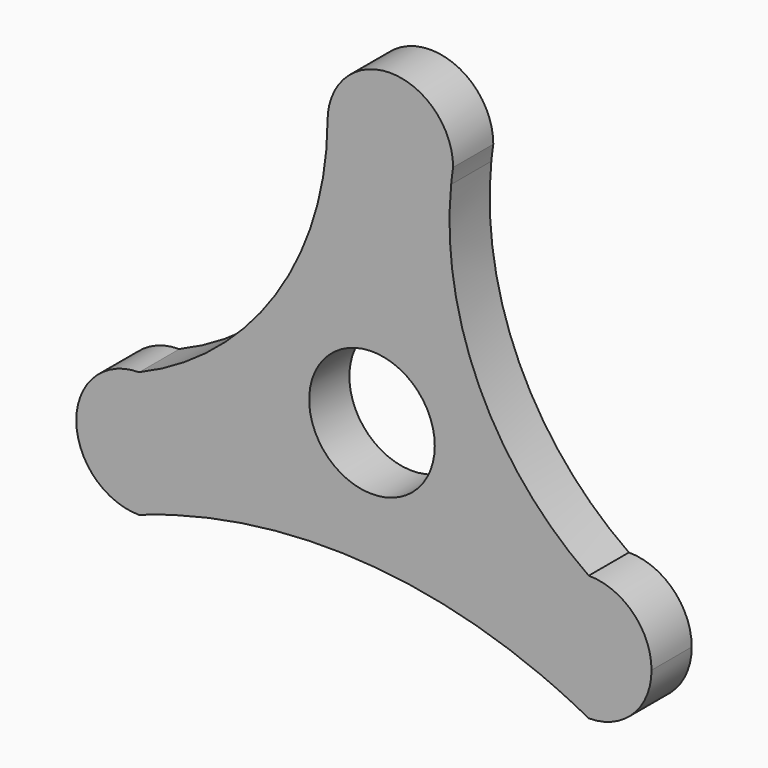
from build123d import *

# Parameters (mm, degrees)
F0_R     = 6.35
F1_DEPTH = 5.08


with BuildPart() as f1:
    # F0 (on Front) → F1 (new body)
    with BuildSketch(Plane.XZ):
        with BuildLine():
            ThreePointArc((-21.5212, 20.87065), (-23.381072, 25.360779), (-27.8712, 27.22065))
            ThreePointArc((-27.8712, 27.22065), (-33.608668, 23.591673), (-32.788297, 16.852608))
            ThreePointArc((-32.788297, 16.852608), (-30.301453, 15.746291), (-27.8712, 14.52065))
            ThreePointArc((-27.8712, 14.52065), (-23.381072, 16.380522), (-21.5212, 20.87065))
        make_face()
        with BuildLine():
            ThreePointArc((-41.783721, 57.525801), (-48.730566, 52.807039), (-54.283745, 59.106847))
            ThreePointArc((-54.283745, 59.106847), (-59.519659, 41.961154), (-73.339507, 30.541812))
            ThreePointArc((-73.339507, 30.541812), (-68.849379, 28.68194), (-66.989507, 24.191812))
            ThreePointArc((-66.989507, 24.191812), (-67.691038, 21.290555), (-69.640623, 19.030344))
            ThreePointArc((-69.640623, 19.030344), (-51.030186, 21.059804), (-32.788297, 16.852608))
            ThreePointArc((-32.788297, 16.852608), (-33.608668, 23.591673), (-27.8712, 27.22065))
            ThreePointArc((-27.8712, 27.22065), (-38.955492, 40.478125), (-41.783721, 57.525801))
        make_face()
        with Locations((-49.789048, 33.706847)):
            Circle(F0_R, mode=Mode.SUBTRACT)
        with BuildLine():
            ThreePointArc((-66.989507, 24.191812), (-68.849379, 28.68194), (-73.339507, 30.541812))
            ThreePointArc((-73.339507, 30.541812), (-79.689507, 24.191812), (-73.339507, 17.841812))
            ThreePointArc((-73.339507, 17.841812), (-71.500357, 18.46811), (-69.640623, 19.030344))
            ThreePointArc((-69.640623, 19.030344), (-67.691038, 21.290555), (-66.989507, 24.191812))
        make_face()
        with BuildLine():
            ThreePointArc((-41.783721, 57.525801), (-41.693316, 58.317536), (-41.583745, 59.106847))
            ThreePointArc((-41.583745, 59.106847), (-47.933745, 65.456847), (-54.283745, 59.106847))
            ThreePointArc((-54.283745, 59.106847), (-48.730566, 52.807039), (-41.783721, 57.525801))
        make_face()
    extrude(amount=F1_DEPTH)


solid = f1.part
